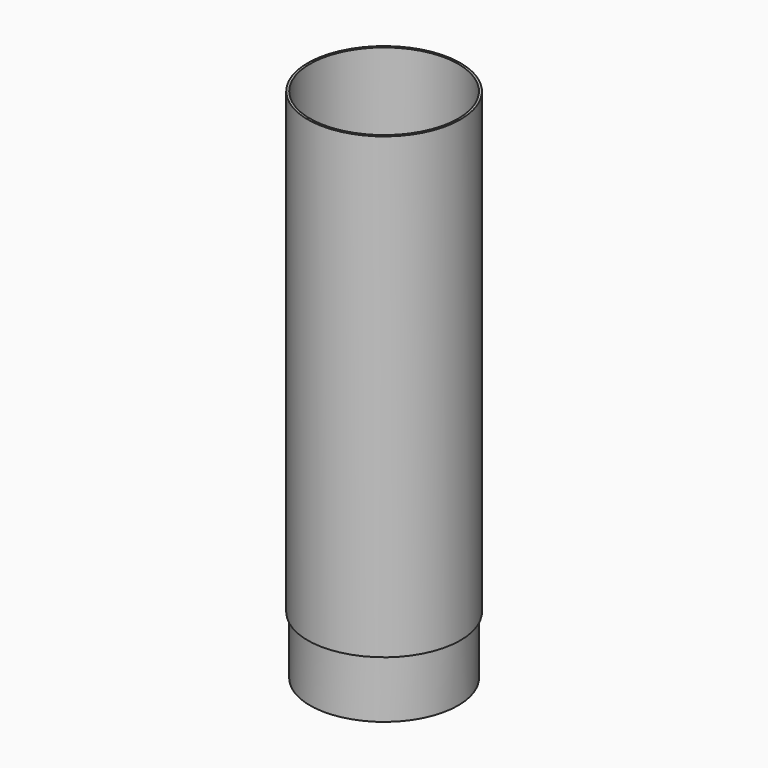
from build123d import *

# Parameters (mm, degrees)
F0_R          = 25
F0_R_2        = 24.25
F1_DEPTH      = 150
F0_R_3        = 23.3
F2_DEPTH      = 19
F2_DEPTH_BACK = 19


with BuildPart() as f1:
    # F0 (on Top) → F1 (new body)
    with BuildSketch(Plane.XY):
        Circle(F0_R)
        Circle(F0_R_2, mode=Mode.SUBTRACT)
    extrude(amount=F1_DEPTH)


with BuildPart() as f2:
    # F0 (on Top) → F2 (new body, two sides)
    with BuildSketch(Plane.XY) as f2_sk:
        Circle(F0_R_2)
        Circle(F0_R_3, mode=Mode.SUBTRACT)
    extrude(amount=-F2_DEPTH)
    extrude(f2_sk.sketch, amount=F2_DEPTH_BACK)


solid = Compound([f1.part, f2.part])
